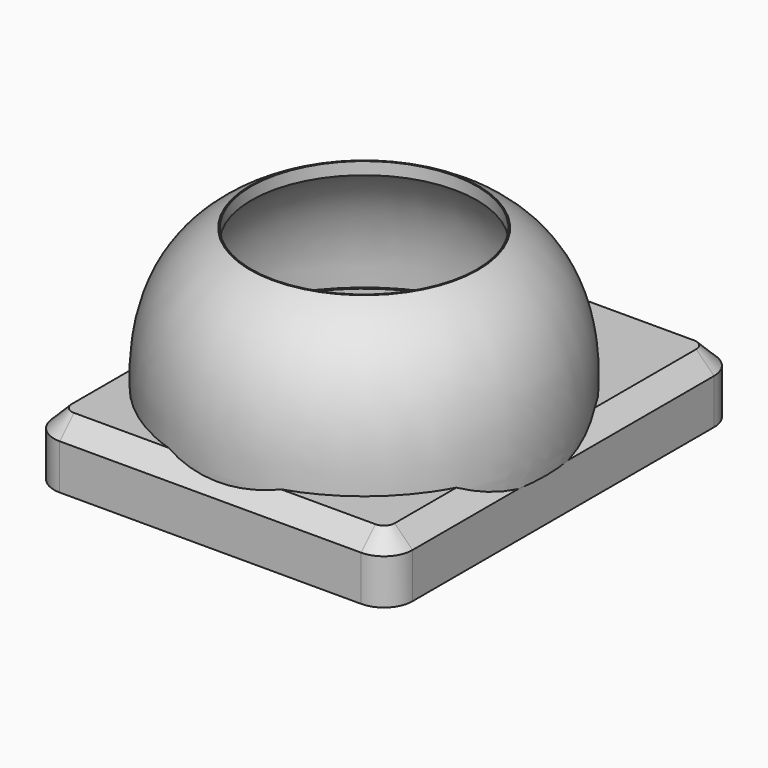
from build123d import *

# Parameters (mm, degrees)
PAD004_DEPTH    = 5.3
THICKNESS_T     = -2
CHAMFER_SIZE    = 1.5
SKETCH016_R     = 3
SKETCH016_R_2   = 1.65
PAD005_DEPTH    = 3.3
SKETCH018_R     = 9.5
POCKET_DEPTH    = 14
SKETCH019_R     = 14.157042
POCKET004_DEPTH = 2
SKETCH020_W     = 5
SKETCH020_H     = 1.3
POCKET005_DEPTH = 2


with BuildPart() as part:
    # Sketch015 → Pad004 (new body)
    with BuildSketch(Plane.XY):
        with BuildLine():
            Line((-2.4, 31.75), (-2.4, 0))
            ThreePointArc((-2.4, 0), (-1.697056, -1.697056), (0, -2.4))
            Line((0, -2.4), (25.4, -2.4))
            ThreePointArc((25.4, -2.4), (27.097056, -1.697056), (27.8, 0))
            Line((27.8, 0), (27.8, 31.75))
            ThreePointArc((27.8, 31.75), (27.097056, 33.447056), (25.4, 34.15))
            Line((25.4, 34.15), (0, 34.15))
            ThreePointArc((0, 34.15), (-1.697056, 33.447056), (-2.4, 31.75))
        make_face()
    extrude(amount=PAD004_DEPTH)

    # Thickness
    thickness_openings = [part.faces().sort_by_distance(p)[0] for p in [
        (12.7, 15.875, 0),
    ]]
    offset(amount=THICKNESS_T, openings=thickness_openings)

    # Chamfer
    chamfer_edges = [part.edges().sort_by_distance(p)[0] for p in [
        (-2.4, 15.875, 5.3),
    ]]
    chamfer(chamfer_edges, length=CHAMFER_SIZE)

    # Sketch016 (on Face10 of Thickness) → Pad005 (join)
    with BuildSketch(Plane(origin=(0, 0, 0), x_dir=(1, 0, 0), z_dir=(0, 0, -1))):
        with Locations((2.54, -2.54)):
            Circle(SKETCH016_R)
        with Locations((2.54, -2.54)):
            Circle(SKETCH016_R_2, mode=Mode.SUBTRACT)
        with Locations((22.86, -2.54)):
            Circle(SKETCH016_R)
        with Locations((22.86, -2.54)):
            Circle(SKETCH016_R_2, mode=Mode.SUBTRACT)
        with Locations((22.86, -29.21)):
            Circle(SKETCH016_R)
        with Locations((22.86, -29.21)):
            Circle(SKETCH016_R_2, mode=Mode.SUBTRACT)
        with Locations((2.54, -29.21)):
            Circle(SKETCH016_R)
        with Locations((2.54, -29.21)):
            Circle(SKETCH016_R_2, mode=Mode.SUBTRACT)
    extrude(amount=-PAD005_DEPTH)

    # Sketch017 (on DatumPlane) → Revolution (revolve)
    with BuildSketch(Plane.YZ.offset(12.7)):
        with BuildLine():
            Line((28.111763, 3.8), (29.111763, 3.8))
            add(Edge.make_bspline(
                [(29.111763, 3.8), (30.048452, 13.753506), (23.390882, 17.18771)],
                knots=[0, 0, 0, 1, 1, 1], degree=2))
            Line((23.390882, 17.18771), (13.782356, 17.18771))
            Line((13.782356, 17.18771), (13.782356, 16.207748))
            Line((13.782356, 16.207748), (23.191694, 16.207748))
            add(Edge.make_bspline(
                [(28.111763, 3.8), (28.400201, 12.620692), (23.191694, 16.207748)],
                knots=[0, 0, 0, 1, 1, 1], degree=2))
        make_face()
    revolve(axis=Axis((12.7, 13.782356, 17.18771), (0, 0, -1)))

    # Sketch018 (on Face6 of Revolution) → Pocket (cut)
    with BuildSketch(Plane.XY.offset(17.18771)):
        with Locations((12.7, 13.782356)):
            Circle(SKETCH018_R)
    extrude(amount=-POCKET_DEPTH, mode=Mode.SUBTRACT)

    # Sketch019 (on Face5 of Pocket) → Pocket004 (cut)
    with BuildSketch(Plane.XY.offset(5.3)):
        with Locations((12.7, 13.782356)):
            Circle(SKETCH019_R)
    extrude(amount=-POCKET004_DEPTH, mode=Mode.SUBTRACT)

    # Sketch020 (on Face25 of Pocket004) → Pocket005 (cut)
    with BuildSketch(Plane(origin=(0, 34.15, 0), x_dir=(-1, 0, 0), z_dir=(0, 1, 0))):
        with Locations((-12.662868, 0.65)):
            Rectangle(SKETCH020_W, SKETCH020_H)
    extrude(amount=-POCKET005_DEPTH, mode=Mode.SUBTRACT)


solid = part.part
